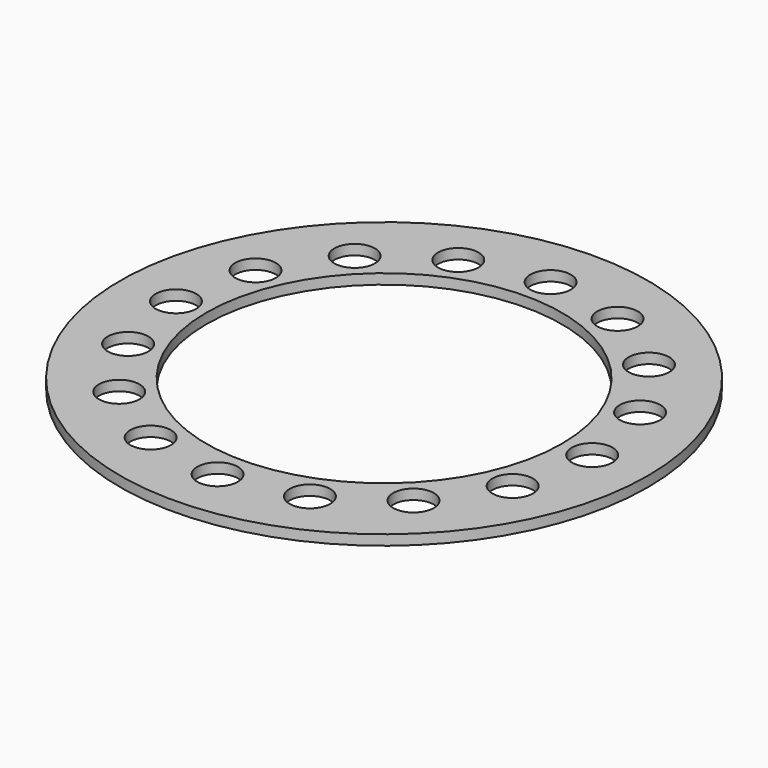
from build123d import *

# Parameters (mm, degrees)
F0_R     = 52
F0_R_2   = 4
F0_R_3   = 35
F1_DEPTH = 2
F2_DEPTH = 2


with BuildPart() as f1:
    # F0 (on Top) → F1 (new body)
    with BuildSketch(Plane.XY):
        Circle(F0_R)
        with Locations((-28.9913780286, -28.9913780286)):
            Circle(F0_R_2, mode=Mode.SUBTRACT)
        with Locations((-15.690020727, -37.879060833)):
            Circle(F0_R_2, mode=Mode.SUBTRACT)
        with Locations((-37.879060833, -15.690020727)):
            Circle(F0_R_2, mode=Mode.SUBTRACT)
        with Locations((0, -41)):
            Circle(F0_R_2, mode=Mode.SUBTRACT)
        with Locations((15.690020727, -37.879060833)):
            Circle(F0_R_2, mode=Mode.SUBTRACT)
        with Locations((28.9913780286, -28.9913780286)):
            Circle(F0_R_2, mode=Mode.SUBTRACT)
        with Locations((37.879060833, -15.690020727)):
            Circle(F0_R_2, mode=Mode.SUBTRACT)
        with Locations((-41, 0)):
            Circle(F0_R_2, mode=Mode.SUBTRACT)
        with Locations((-37.879060833, 15.690020727)):
            Circle(F0_R_2, mode=Mode.SUBTRACT)
        with Locations((-28.9913780286, 28.9913780286)):
            Circle(F0_R_2, mode=Mode.SUBTRACT)
        with Locations((-15.690020727, 37.879060833)):
            Circle(F0_R_2, mode=Mode.SUBTRACT)
        Circle(F0_R_3, mode=Mode.SUBTRACT)
        with Locations((41, 0)):
            Circle(F0_R_2, mode=Mode.SUBTRACT)
        with Locations((37.879060833, 15.690020727)):
            Circle(F0_R_2, mode=Mode.SUBTRACT)
        with Locations((15.690020727, 37.879060833)):
            Circle(F0_R_2, mode=Mode.SUBTRACT)
        with Locations((0, 41)):
            Circle(F0_R_2, mode=Mode.SUBTRACT)
        with Locations((28.9913780286, 28.9913780286)):
            Circle(F0_R_2, mode=Mode.SUBTRACT)
    extrude(amount=F1_DEPTH)

    # F0 (on Top) → F2 (join)
    with BuildSketch(Plane.XY):
        Circle(F0_R)
        with Locations((-28.9913780286, -28.9913780286)):
            Circle(F0_R_2, mode=Mode.SUBTRACT)
        with Locations((-15.690020727, -37.879060833)):
            Circle(F0_R_2, mode=Mode.SUBTRACT)
        with Locations((-37.879060833, -15.690020727)):
            Circle(F0_R_2, mode=Mode.SUBTRACT)
        with Locations((0, -41)):
            Circle(F0_R_2, mode=Mode.SUBTRACT)
        with Locations((15.690020727, -37.879060833)):
            Circle(F0_R_2, mode=Mode.SUBTRACT)
        with Locations((28.9913780286, -28.9913780286)):
            Circle(F0_R_2, mode=Mode.SUBTRACT)
        with Locations((37.879060833, -15.690020727)):
            Circle(F0_R_2, mode=Mode.SUBTRACT)
        with Locations((-41, 0)):
            Circle(F0_R_2, mode=Mode.SUBTRACT)
        with Locations((-37.879060833, 15.690020727)):
            Circle(F0_R_2, mode=Mode.SUBTRACT)
        with Locations((-28.9913780286, 28.9913780286)):
            Circle(F0_R_2, mode=Mode.SUBTRACT)
        with Locations((-15.690020727, 37.879060833)):
            Circle(F0_R_2, mode=Mode.SUBTRACT)
        Circle(F0_R_3, mode=Mode.SUBTRACT)
        with Locations((41, 0)):
            Circle(F0_R_2, mode=Mode.SUBTRACT)
        with Locations((37.879060833, 15.690020727)):
            Circle(F0_R_2, mode=Mode.SUBTRACT)
        with Locations((15.690020727, 37.879060833)):
            Circle(F0_R_2, mode=Mode.SUBTRACT)
        with Locations((0, 41)):
            Circle(F0_R_2, mode=Mode.SUBTRACT)
        with Locations((28.9913780286, 28.9913780286)):
            Circle(F0_R_2, mode=Mode.SUBTRACT)
    extrude(amount=F2_DEPTH)


solid = f1.part
